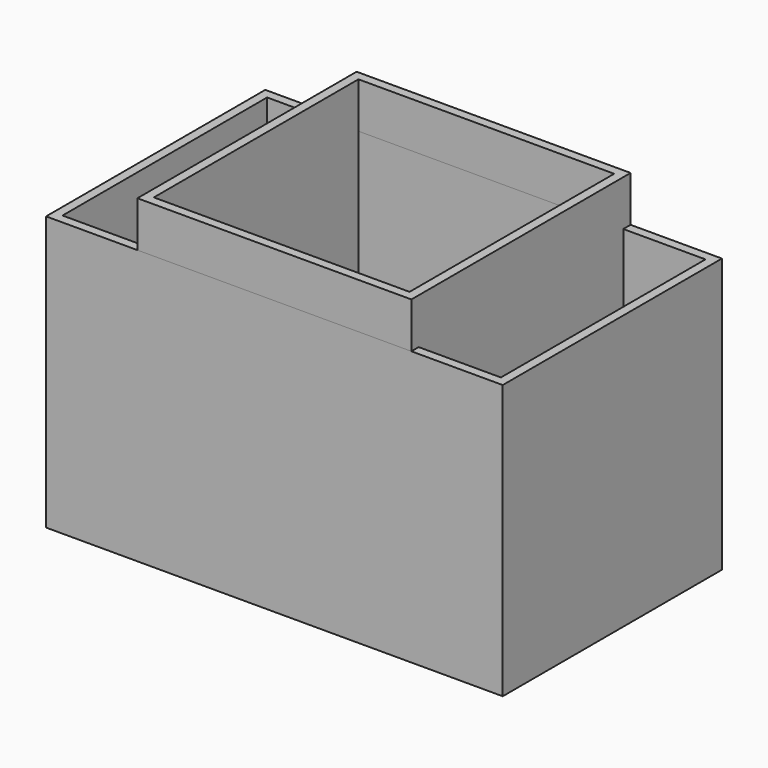
from build123d import *

# Parameters (mm, degrees)
F0_W     = 600
F0_H     = 600
F0_W_2   = 560
F0_H_2   = 560
F1_DEPTH = 700
F2_W     = 1000
F2_H     = 600
F2_W_2   = 960
F2_H_2   = 560
F3_DEPTH = 600


with BuildPart() as f1:
    # F0 (on Top) → F1 (new body)
    with BuildSketch(Plane.XY):
        Rectangle(F0_W, F0_H)
        Rectangle(F0_W_2, F0_H_2, mode=Mode.SUBTRACT)
    extrude(amount=F1_DEPTH)


with BuildPart() as f3:
    # F2 (on Top) → F3 (new body)
    with BuildSketch(Plane.XY):
        Rectangle(F2_W, F2_H)
        Rectangle(F2_W_2, F2_H_2, mode=Mode.SUBTRACT)
    extrude(amount=F3_DEPTH)


solid = Compound([f1.part, f3.part])
